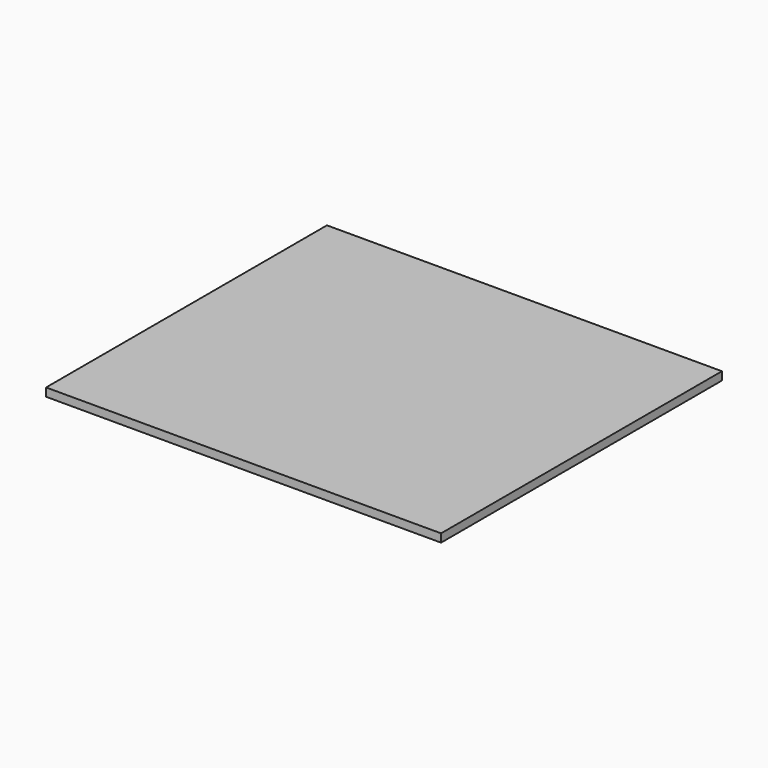
from build123d import *

# Parameters (mm, degrees)
SKETCH001_W      = 914.4
SKETCH001_H      = 812.8
EXTRUDE001_DEPTH = 19.05


with BuildPart() as part:
    # Sketch001 → Extrude001 (new body)
    with BuildSketch(Plane.XY):
        with Locations((457.2, 406.4)):
            Rectangle(SKETCH001_W, SKETCH001_H)
    extrude(amount=EXTRUDE001_DEPTH)


solid = part.part
